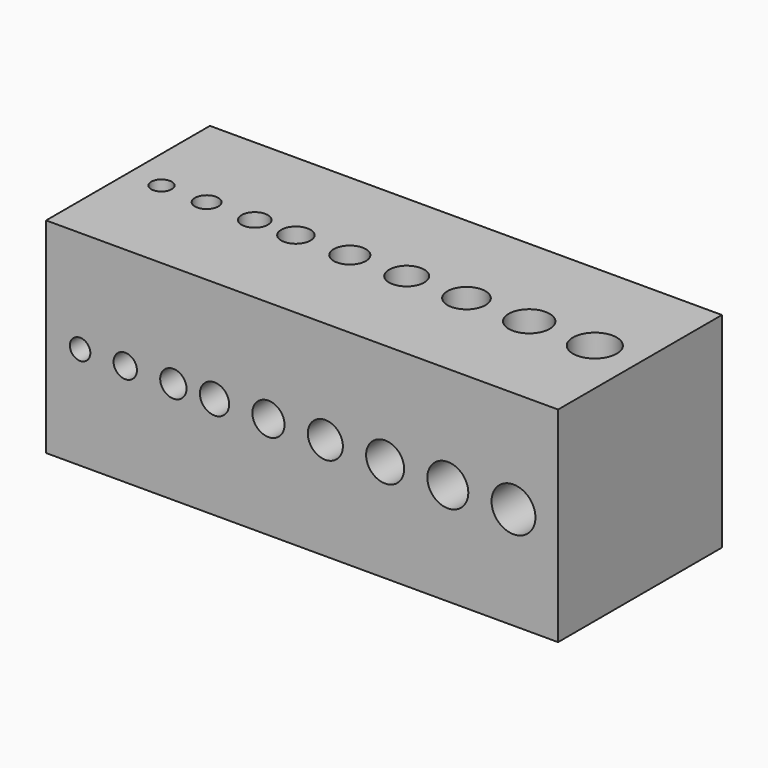
from build123d import *

# Parameters (mm, degrees)
F0_W     = 35
F0_H     = 14
F0_R     = 0.7
F0_R_2   = 0.8
F0_R_3   = 0.9
F0_R_4   = 1
F0_R_5   = 1.1
F0_R_6   = 1.2
F0_R_7   = 1.3
F0_R_8   = 1.4
F0_R_9   = 1.5
F1_DEPTH = 14
F2_R     = 0.7
F2_R_2   = 0.8
F2_R_3   = 0.9
F2_R_4   = 1
F2_R_5   = 1.1
F2_R_6   = 1.2
F2_R_7   = 1.3
F2_R_8   = 1.4
F2_R_9   = 1.5
F3_DEPTH = 14


with BuildPart() as f1:
    # F0 (on Top) → F1 (new body)
    with BuildSketch(Plane.XY):
        Rectangle(F0_W, F0_H)
        with Locations((-15.21269, 0)):
            Circle(F0_R, mode=Mode.SUBTRACT)
        with Locations((-12.12538, 0)):
            Circle(F0_R_2, mode=Mode.SUBTRACT)
        with Locations((-8.83807, 0)):
            Circle(F0_R_3, mode=Mode.SUBTRACT)
        with Locations((-6.02386, 0)):
            Circle(F0_R_4, mode=Mode.SUBTRACT)
        with Locations((-2.33655, 0)):
            Circle(F0_R_5, mode=Mode.SUBTRACT)
        with Locations((1.55076, 0)):
            Circle(F0_R_6, mode=Mode.SUBTRACT)
        with Locations((5.63807, 0)):
            Circle(F0_R_7, mode=Mode.SUBTRACT)
        with Locations((9.92538, 0)):
            Circle(F0_R_8, mode=Mode.SUBTRACT)
        with Locations((14.41269, 0)):
            Circle(F0_R_9, mode=Mode.SUBTRACT)
    extrude(amount=F1_DEPTH)

    # F2 (on face) → F3 (cut, through all)
    with BuildSketch(Plane.XZ.offset(7)):
        with Locations((-15.174292, 7)):
            Circle(F2_R)
        with Locations((-12.086982, 7)):
            Circle(F2_R_2)
        with Locations((-8.799672, 7)):
            Circle(F2_R_3)
        with Locations((-5.985462, 7)):
            Circle(F2_R_4)
        with Locations((-2.298152, 7)):
            Circle(F2_R_5)
        with Locations((1.589158, 7)):
            Circle(F2_R_6)
        with Locations((5.676468, 7)):
            Circle(F2_R_7)
        with Locations((9.963778, 7)):
            Circle(F2_R_8)
        with Locations((14.451088, 7)):
            Circle(F2_R_9)
    extrude(amount=-F3_DEPTH, mode=Mode.SUBTRACT)


solid = f1.part
